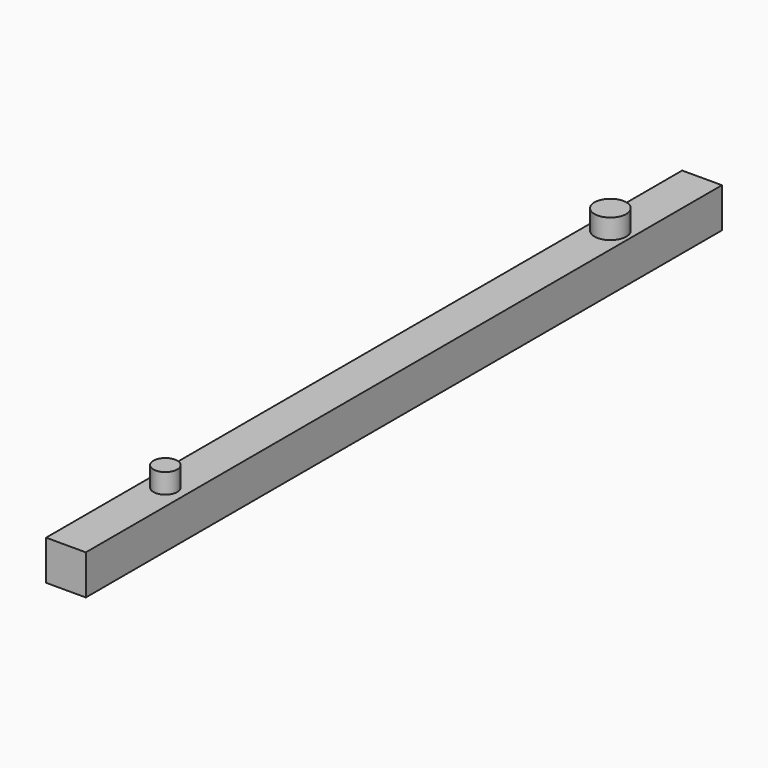
from build123d import *

# Parameters (mm, degrees)
F0_W     = 12.7
F0_H     = 12.7
F1_DEPTH = 254
F2_R     = 5.08
F2_R_2   = 3.81
F3_DEPTH = 12.7


with BuildPart() as f1:
    # F0 (on Front) → F1 (new body)
    with BuildSketch(Plane.XZ):
        Rectangle(F0_W, F0_H)
    extrude(amount=F1_DEPTH)

    # F2 (on Top) → F3 (join)
    with BuildSketch(Plane.XY):
        with Locations((0, -36.592617631)):
            Circle(F2_R)
        with Locations((0, -214.3127407558)):
            Circle(F2_R_2)
    extrude(amount=F3_DEPTH)


solid = f1.part
